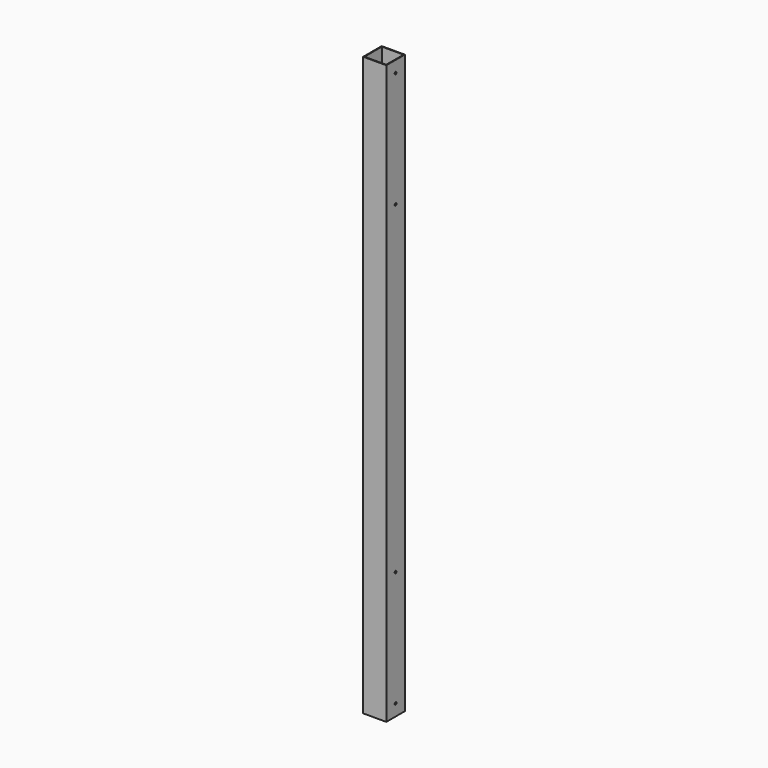
from build123d import *

# Parameters (mm, degrees)
F0_W     = 100
F0_H     = 100
F0_W_2   = 94
F0_H_2   = 94
F1_DEPTH = 1250
F2_R     = 5
F3_DEPTH = 300


with BuildPart() as f1:
    # F0 (on Top) → F1 (new body, symmetric)
    with BuildSketch(Plane.XY):
        Rectangle(F0_W, F0_H)
        Rectangle(F0_W_2, F0_H_2, mode=Mode.SUBTRACT)
    extrude(amount=F1_DEPTH, both=True)

    # F2 (on face) → F3 (cut)
    with BuildSketch(Plane.YZ.offset(50)):
        with Locations((0, 1200)):
            Circle(F2_R)
        with Locations((0, 700)):
            Circle(F2_R)
        with Locations((0, -700)):
            Circle(F2_R)
        with Locations((0, -1200)):
            Circle(F2_R)
    extrude(amount=-F3_DEPTH, mode=Mode.SUBTRACT)


solid = f1.part
